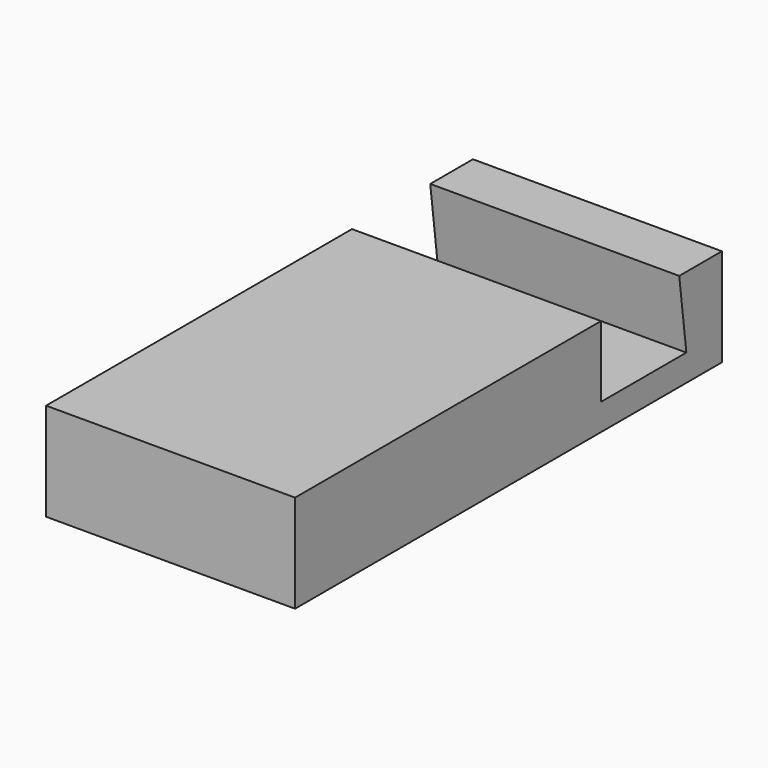
from build123d import *

# Parameters (mm, degrees)
EXTRUDE_DEPTH = 28


with BuildPart() as part:
    # Sketch → Extrude (new body)
    with BuildSketch(Plane.YZ):
        Polygon((0, 11), (0, 0), (60, 0), (60, 11), (54, 11), (55, 3), (43, 3), (43, 11), align=None)
    extrude(amount=EXTRUDE_DEPTH)


solid = part.part
